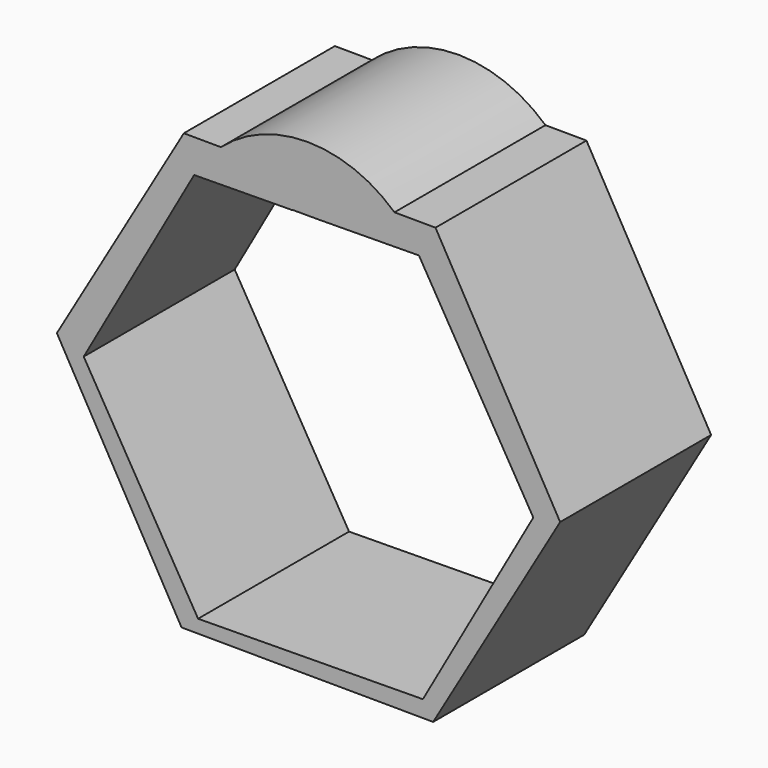
from build123d import *

# Parameters (mm, degrees)
F1_DEPTH = 25.4
F2_DEPTH = 12.7


with BuildPart() as f1:
    # F0 (on Front) → F1 (new body)
    with BuildSketch(Plane.XZ):
        with BuildLine():
            Line((22.2938086671, 37.8394394302), (45.3820059925, -1.2332103811))
            Line((45.3820059925, -1.2332103811), (23.0881973254, -40.7645006982))
            Line((23.0881973254, -40.7645006982), (-22.2938086671, -41.2231412039))
            Line((-22.2938086671, -41.2231412039), (-45.3820059925, -2.1504913925))
            Line((-45.3820059925, -2.1504913925), (-23.0881973254, 37.3807989246))
            ThreePointArc((-23.0881973254, 37.3807989246), (-20.6611195322, 40.9584422448), (-17.678807487, 44.0883069712))
            Line((-17.678807487, 44.0883069712), (-25.1667220305, 44.1279514847))
            Line((-25.1667220305, 44.1279514847), (-50.799288018, 0.2689551339))
            Line((-50.799288018, 0.2689551339), (-25.6325659875, -43.8589963508))
            Line((-25.6325659875, -43.8589963508), (25.1667220305, -44.1279514847))
            Line((25.1667220305, -44.1279514847), (50.799288018, -0.2689551339))
            Line((50.799288018, -0.2689551339), (25.6325659875, 43.8589963508))
            Line((25.6325659875, 43.8589963508), (17.3555520633, 43.9028187246))
            ThreePointArc((17.3555520633, 43.9028187246), (20.0521477329, 41.0563875242), (22.2938086671, 37.8394394302))
        make_face()
        with BuildLine():
            Line((2.332669028, 37.6377077752), (22.2938086671, 37.8394394302))
            ThreePointArc((22.2938086671, 37.8394394302), (20.0521477329, 41.0563875242), (17.3555520633, 43.9028187246))
            Line((17.3555520633, 43.9028187246), (-17.678807487, 44.0883069712))
            ThreePointArc((-17.678807487, 44.0883069712), (-20.6611195322, 40.9584422448), (-23.0881973254, 37.3807989246))
            Line((-23.0881973254, 37.3807989246), (-4.9347848203, 37.5642612927))
            Line((-4.9347848203, 37.5642612927), (-3.2948285582, 37.5808350504))
            Line((-3.2948285582, 37.5808350504), (-3.2948285582, 37.6377077752))
            Line((-3.2948285582, 37.6377077752), (2.332669028, 37.6377077752))
        make_face()
        with BuildLine():
            Line((-17.678807487, 44.0883069712), (17.3555520633, 43.9028187246))
            ThreePointArc((17.3555520633, 43.9028187246), (-0.126069101, 50.7117466352), (-17.678807487, 44.0883069712))
        make_face()
    extrude(amount=F1_DEPTH)

    # F0 (on Front) → F2 (join, symmetric)
    with BuildSketch(Plane.XZ):
        with BuildLine():
            Line((22.2938086671, 37.8394394302), (45.3820059925, -1.2332103811))
            Line((45.3820059925, -1.2332103811), (23.0881973254, -40.7645006982))
            Line((23.0881973254, -40.7645006982), (-22.2938086671, -41.2231412039))
            Line((-22.2938086671, -41.2231412039), (-45.3820059925, -2.1504913925))
            Line((-45.3820059925, -2.1504913925), (-23.0881973254, 37.3807989246))
            ThreePointArc((-23.0881973254, 37.3807989246), (-20.6611195322, 40.9584422448), (-17.678807487, 44.0883069712))
            Line((-17.678807487, 44.0883069712), (-25.1667220305, 44.1279514847))
            Line((-25.1667220305, 44.1279514847), (-50.799288018, 0.2689551339))
            Line((-50.799288018, 0.2689551339), (-25.6325659875, -43.8589963508))
            Line((-25.6325659875, -43.8589963508), (25.1667220305, -44.1279514847))
            Line((25.1667220305, -44.1279514847), (50.799288018, -0.2689551339))
            Line((50.799288018, -0.2689551339), (25.6325659875, 43.8589963508))
            Line((25.6325659875, 43.8589963508), (17.3555520633, 43.9028187246))
            ThreePointArc((17.3555520633, 43.9028187246), (20.0521477329, 41.0563875242), (22.2938086671, 37.8394394302))
        make_face()
        with BuildLine():
            Line((2.332669028, 37.6377077752), (22.2938086671, 37.8394394302))
            ThreePointArc((22.2938086671, 37.8394394302), (20.0521477329, 41.0563875242), (17.3555520633, 43.9028187246))
            Line((17.3555520633, 43.9028187246), (-17.678807487, 44.0883069712))
            ThreePointArc((-17.678807487, 44.0883069712), (-20.6611195322, 40.9584422448), (-23.0881973254, 37.3807989246))
            Line((-23.0881973254, 37.3807989246), (-4.9347848203, 37.5642612927))
            Line((-4.9347848203, 37.5642612927), (-3.2948285582, 37.5808350504))
            Line((-3.2948285582, 37.5808350504), (-3.2948285582, 37.6377077752))
            Line((-3.2948285582, 37.6377077752), (2.332669028, 37.6377077752))
        make_face()
        with BuildLine():
            Line((-17.678807487, 44.0883069712), (17.3555520633, 43.9028187246))
            ThreePointArc((17.3555520633, 43.9028187246), (-0.126069101, 50.7117466352), (-17.678807487, 44.0883069712))
        make_face()
    extrude(amount=F2_DEPTH, both=True)


solid = f1.part
